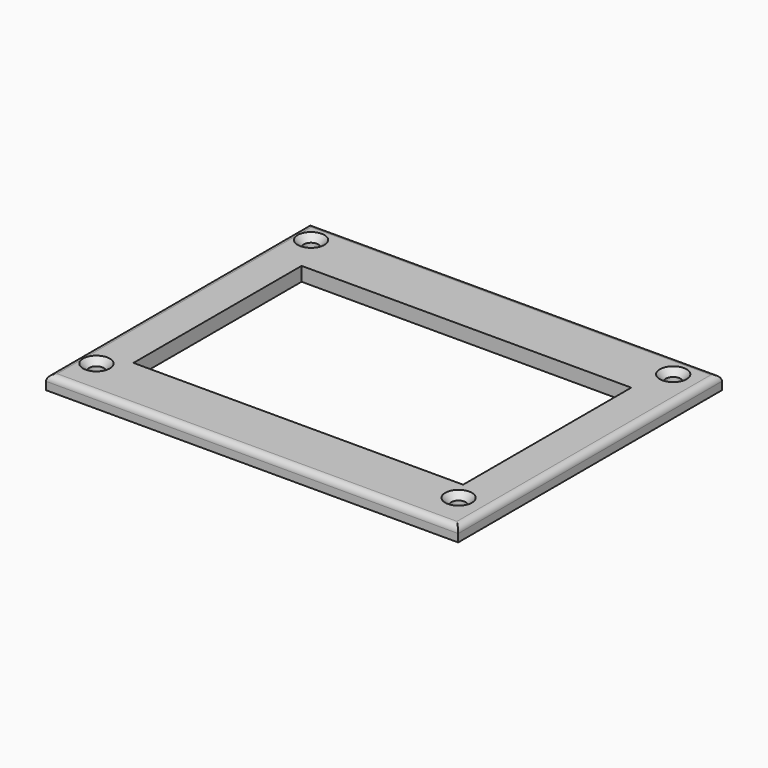
from build123d import *

# Parameters (mm, degrees)
SKETCH002_W  = 100
SKETCH002_H  = 80
SKETCH002_R  = 1.75
PAD004_DEPTH = 3.4
SKETCH_W     = 80
SKETCH_H     = 51
POCKET_DEPTH = 5
CHAMFER_SIZE = 1.5
FILLET_R     = 1.5


with BuildPart() as part:
    # Sketch002 → Pad004 (new body)
    with BuildSketch(Plane.XY.offset(49.5)):
        with Locations((-14.266246, -4.330319)):
            Rectangle(SKETCH002_W, SKETCH002_H)
        with Locations((-59.499317, 30.08403)):
            Circle(SKETCH002_R, mode=Mode.SUBTRACT)
        with Locations((-59.584126, -34.915915)):
            Circle(SKETCH002_R, mode=Mode.SUBTRACT)
        with Locations((28.500684, 29.937426)):
            Circle(SKETCH002_R, mode=Mode.SUBTRACT)
        with Locations((28.415874, -35.062521)):
            Circle(SKETCH002_R, mode=Mode.SUBTRACT)
    extrude(amount=PAD004_DEPTH)

    # Sketch (on Face10 of Pad004) → Pocket (cut)
    with BuildSketch(Plane.XY.offset(52.9)):
        with Locations((-14.266246, -4.830319)):
            Rectangle(SKETCH_W, SKETCH_H)
    extrude(amount=-POCKET_DEPTH, mode=Mode.SUBTRACT)

    # Chamfer
    chamfer_edges = [part.edges().sort_by_distance(p)[0] for p in [
        (-61.334126, -34.915915, 52.9),
        (-61.249317, 30.08403, 52.9),
        (26.750684, 29.937426, 52.9),
        (26.665874, -35.062521, 52.9),
    ]]
    chamfer(chamfer_edges, length=CHAMFER_SIZE)

    # Fillet
    fillet_edges = [part.edges().sort_by_distance(p)[0] for p in [
        (-64.266246, -4.330319, 52.9),
        (-14.266246, -44.330319, 52.9),
        (35.733754, -4.330319, 52.9),
        (-14.266246, 35.669681, 52.9),
    ]]
    fillet(fillet_edges, radius=FILLET_R)


solid = part.part
